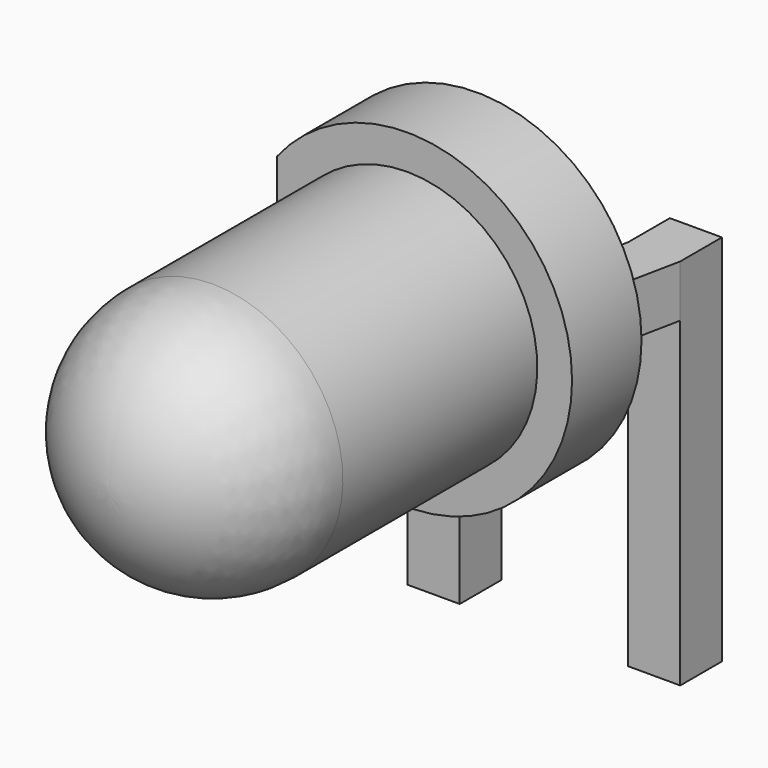
from build123d import *

# Parameters (mm, degrees)
SKETCH002_W    = 2.54
SKETCH002_H    = 0.6
PAD002_DEPTH   = 1
PAD001_DEPTH   = 0.6
SKETCH_W       = 0.6
SKETCH_H       = 0.6
PAD_DEPTH      = 1.7
PAD_DEPTH_BACK = 2
SKETCH004_R    = 1.9
SKETCH004_R_2  = 1.5
PAD003_DEPTH   = 1
SKETCH006_W    = 0.4
SKETCH006_H    = 3.8
POCKET_DEPTH   = 1.001


with BuildPart() as revolution001:
    # Sketch005 → Revolution001 (revolve)
    with BuildSketch(Plane.YZ.offset(1.27)):
        Polygon((-2.47, 2), (-2.97, 2), (-2.97, 2.5), align=None)
    revolve(axis=Axis((1.27, -3.977201, 2), (0, -1, 0)))


with BuildPart() as revolution:
    # Sketch003 → Revolution (revolve)
    with BuildSketch(Plane.YZ.offset(1.27)):
        with BuildLine():
            Line((-1.27, 2), (-6.57, 2))
            ThreePointArc((-5.07, 3.5), (-6.13066, 3.06066), (-6.57, 2))
            Line((-1.27, 3.5), (-5.07, 3.5))
            Line((-1.27, 2), (-1.27, 3.5))
        make_face()
    revolve(axis=Axis((1.27, -5.810397, 2), (0, 1, 0)))


with BuildPart() as pad002:
    # Sketch002 → Pad002 (new body)
    with BuildSketch(Plane.XZ.offset(1.77)):
        with Locations((1.27, 2)):
            Rectangle(SKETCH002_W, SKETCH002_H)
    extrude(amount=PAD002_DEPTH)


with BuildPart() as pad001:
    # Sketch001 → Pad001 (new body)
    with BuildSketch(Plane.XY.offset(1.7)):
        Polygon((0.3, 0.3), (-0.3, 0.3), (-0.3, -0.3), (0, -1.77), (0.6, -1.77), (0.3, -0.3), align=None)
        Polygon((2.84, 0.3), (2.24, 0.3), (2.24, -0.3), (1.94, -1.77), (2.54, -1.77), (2.84, -0.3), align=None)
    extrude(amount=PAD001_DEPTH)


with BuildPart() as pad:
    # Sketch → Pad (new body, two sides)
    with BuildSketch(Plane.XY) as pad_sk:
        Rectangle(SKETCH_W, SKETCH_H)
        with Locations((2.54, 0)):
            Rectangle(SKETCH_W, SKETCH_H)
    extrude(amount=PAD_DEPTH)
    extrude(pad_sk.sketch, amount=-PAD_DEPTH_BACK)


with BuildPart() as led_d3_0mm_horizontal_o1_27mm_z2_0mm:
    # Sketch004 → Pad003 (new body)
    with BuildSketch(Plane.XZ.offset(1.27)):
        with Locations((1.27, 2)):
            Circle(SKETCH004_R)
        with Locations((1.27, 2)):
            Circle(SKETCH004_R_2, mode=Mode.SUBTRACT)
    extrude(amount=PAD003_DEPTH)

    # Sketch006 → Pocket (cut, through all)
    with BuildSketch(Plane.XZ.offset(2.27)):
        with Locations((-0.43, 2)):
            Rectangle(SKETCH006_W, SKETCH006_H)
    extrude(amount=-POCKET_DEPTH, mode=Mode.SUBTRACT)

    add(revolution001.part)
    add(revolution.part)
    add(pad002.part)
    add(pad001.part)
    add(pad.part)


solid = led_d3_0mm_horizontal_o1_27mm_z2_0mm.part
